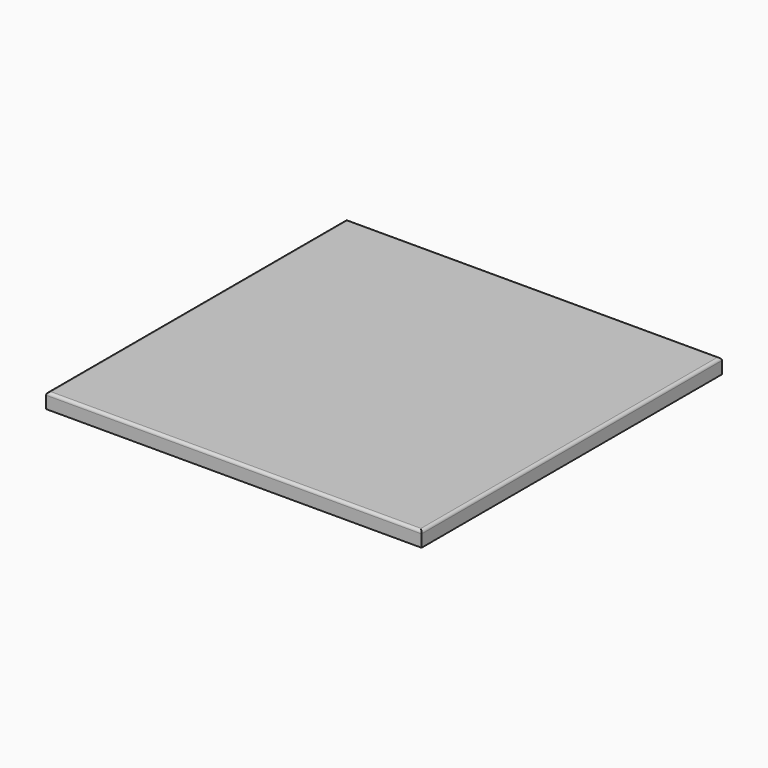
from build123d import *

# Parameters (mm, degrees)
F0_W     = 1000
F0_H     = 40
F1_DEPTH = 1000
F2_R     = 7.5
F3_R     = 3
F4_DEPTH = 12


with BuildPart() as f1:
    # F0 (on Front) → F1 (new body)
    with BuildSketch(Plane.XZ):
        with Locations((500, 20)):
            Rectangle(F0_W, F0_H)
    extrude(amount=F1_DEPTH)

    # F2
    f2_edges = [f1.edges().sort_by_distance(p)[0] for p in [
        (1000, -500, 40),
        (0, -500, 40),
        (500, 0, 40),
        (500, -1000, 40),
    ]]
    fillet(f2_edges, radius=F2_R)

    # F3 (on face) → F4 (cut)
    with BuildSketch(Plane(origin=(0, 0, 0), x_dir=(1, 0, 0), z_dir=(0, 0, -1))):
        with Locations((980, 20)):
            Circle(F3_R)
    extrude(amount=-F4_DEPTH, mode=Mode.SUBTRACT)


solid = f1.part
